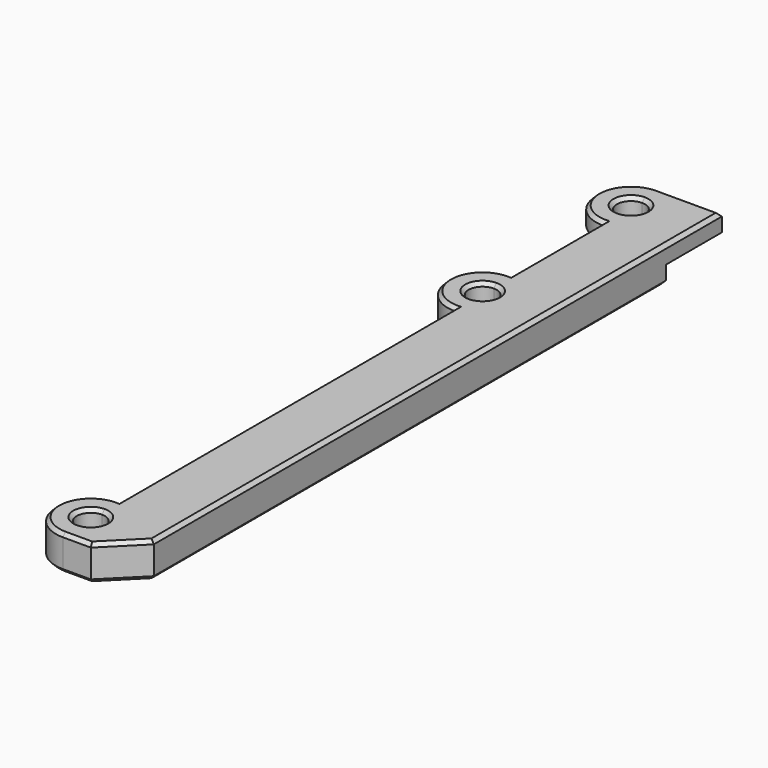
from build123d import *

# Parameters (mm, degrees)
F1_DEPTH = 5
F3_DEPTH = 2.5
F4_SIZE  = 5
F5_SIZE  = 0.5


with BuildPart() as f1:
    # F0 (on Top) → F1 (new body)
    with BuildSketch(Plane.XY):
        with BuildLine():
            Line((-9, 0), (0, 0))
            Line((0, 0), (0, 106.5))
            Line((0, 106.5), (-9, 106.5))
            Line((-9, 106.5), (-9, 103.5))
            ThreePointArc((-9, 103.5), (-7.585786, 102.914214), (-7, 101.5))
            ThreePointArc((-7, 101.5), (-7.585786, 100.085786), (-9, 99.5))
            Line((-9, 99.5), (-9, 96.5))
            Line((-9, 96.5), (-9, 80))
            Line((-9, 80), (-9, 77))
            ThreePointArc((-9, 77), (-7.585786, 76.414214), (-7, 75))
            ThreePointArc((-7, 75), (-7.585786, 73.585786), (-9, 73))
            Line((-9, 73), (-9, 70))
            Line((-9, 70), (-9, 10))
            Line((-9, 10), (-9, 7))
            ThreePointArc((-9, 7), (-7.585786, 6.414214), (-7, 5))
            ThreePointArc((-7, 5), (-7.585786, 3.585786), (-9, 3))
            Line((-9, 3), (-9, 0))
        make_face()
        with BuildLine():
            ThreePointArc((-9, 10), (-14, 5), (-9, 0))
            Line((-9, 0), (-9, 3))
            ThreePointArc((-9, 3), (-11, 5), (-9, 7))
            Line((-9, 7), (-9, 10))
        make_face()
        with BuildLine():
            Line((-9, 103.5), (-9, 106.5))
            ThreePointArc((-9, 106.5), (-14, 101.5), (-9, 96.5))
            Line((-9, 96.5), (-9, 99.5))
            ThreePointArc((-9, 99.5), (-11, 101.5), (-9, 103.5))
        make_face()
        with BuildLine():
            ThreePointArc((-9, 80), (-14, 75), (-9, 70))
            Line((-9, 70), (-9, 73))
            ThreePointArc((-9, 73), (-11, 75), (-9, 77))
            Line((-9, 77), (-9, 80))
        make_face()
    extrude(amount=F1_DEPTH)

    # F2 (on face) → F3 (cut)
    with BuildSketch(Plane(origin=(0, 0, 0), x_dir=(1, 0, 0), z_dir=(0, 0, -1))):
        with BuildLine():
            Line((0, -96.5), (-9, -96.5))
            ThreePointArc((-9, -96.5), (-14, -101.5), (-9, -106.5))
            Line((-9, -106.5), (0, -106.5))
            Line((0, -106.5), (0, -96.5))
        make_face()
    extrude(amount=-F3_DEPTH, mode=Mode.SUBTRACT)

    # F4
    f4_edges = [f1.edges().sort_by_distance(p)[0] for p in [
        (0, 0, 2.5),
    ]]
    chamfer(f4_edges, length=F4_SIZE)

    # F5
    f5_edges = [f1.edges().sort_by_distance(p)[0] for p in [
        (-7, 0, 5),
        (-2.5, 2.5, 5),
        (-14, 5, 5),
        (0, 55.75, 5),
        (-9, 40, 5),
        (-4.5, 106.5, 5),
        (-14, 75, 5),
        (-14, 101.5, 5),
        (-9, 88.25, 5),
        (-9, 73, 5),
        (-9, 99.5, 5),
        (-9, 3, 5),
        (0, 50.75, 0),
        (-2.5, 2.5, 0),
        (-4.5, 96.5, 0),
        (-7, 0, 0),
        (-9, 88.25, 0),
        (-14, 5, 0),
        (-14, 75, 0),
        (-9, 40, 0),
        (-9, 3, 0),
        (-9, 73, 0),
    ]]
    chamfer(f5_edges, length=F5_SIZE)


solid = f1.part
